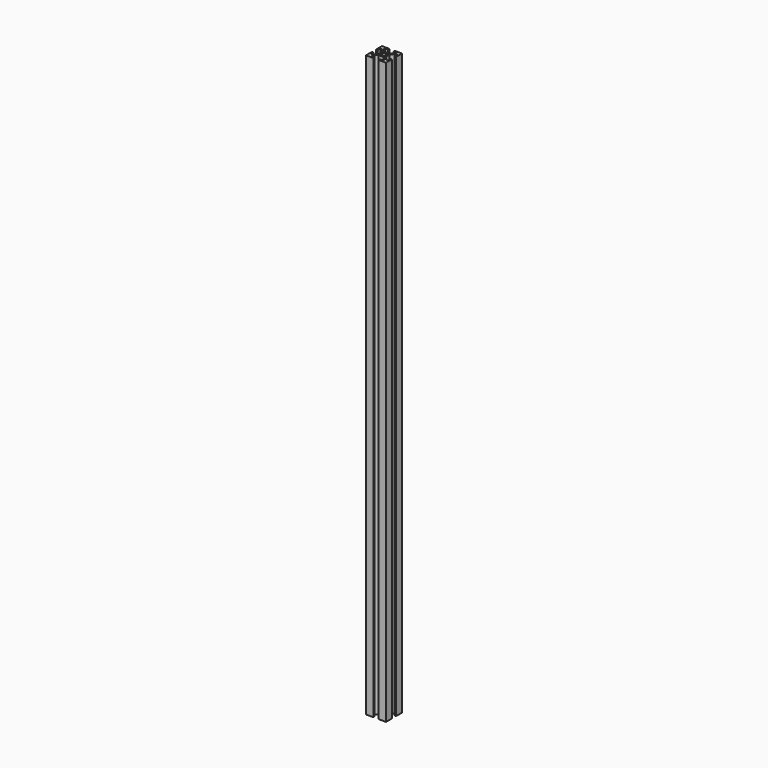
from build123d import *

# Parameters (mm, degrees)
F1_DEPTH = 580


with BuildPart() as f1:
    # F0 (on Top) → F1 (new body)
    with BuildSketch(Plane.XY):
        Polygon((10, 2.63), (10, 10), (2.63, 10), (2.63, 8.5), (5.995, 8.5), (5.995, 7.05566), (2.59934, 3.66), (-2.59934, 3.66), (-5.995, 7.05566), (-5.995, 8.5), (-2.63, 8.5), (-2.63, 10), (-10, 10), (-10, 2.63), (-8.5, 2.63), (-8.5, 5.995), (-7.05566, 5.995), (-3.66, 2.59934), (-3.66, -2.59934), (-7.05566, -5.995), (-8.5, -5.995), (-8.5, -2.63), (-10, -2.63), (-10, -10), (-2.63, -10), (-2.63, -8.5), (-5.995, -8.5), (-5.995, -7.05566), (-2.59934, -3.66), (2.59934, -3.66), (5.995, -7.05566), (5.995, -8.5), (2.63, -8.5), (2.63, -10), (10, -10), (10, -2.63), (8.5, -2.63), (8.5, -5.995), (7.05566, -5.995), (3.66, -2.59934), (3.66, 2.59934), (7.05566, 5.995), (8.5, 5.995), (8.5, 2.63), align=None)
        with BuildLine():
            ThreePointArc((1.886053, 0.912048), (2.042095, 0.467838), (2.095, 0))
            ThreePointArc((2.095, 0), (2.042095, -0.467838), (1.886053, -0.912048))
            ThreePointArc((1.886053, -0.912048), (2.102098, -1.161042), (2.179889, -1.481389))
            ThreePointArc((2.179889, -1.481389), (1.693777, -2.146816), (0.912048, -1.886053))
            ThreePointArc((0.912048, -1.886053), (0, -2.095), (-0.912048, -1.886053))
            ThreePointArc((-0.912048, -1.886053), (-1.975303, -1.975303), (-1.886053, -0.912048))
            ThreePointArc((-1.886053, -0.912048), (-2.095, 0), (-1.886053, 0.912048))
            ThreePointArc((-1.886053, 0.912048), (-1.975303, 1.975303), (-0.912048, 1.886053))
            ThreePointArc((-0.912048, 1.886053), (0, 2.095), (0.912048, 1.886053))
            ThreePointArc((0.912048, 1.886053), (1.693777, 2.146816), (2.179889, 1.481389))
            ThreePointArc((2.179889, 1.481389), (2.102098, 1.161042), (1.886053, 0.912048))
        make_face(mode=Mode.SUBTRACT)
    extrude(amount=F1_DEPTH)


solid = f1.part
